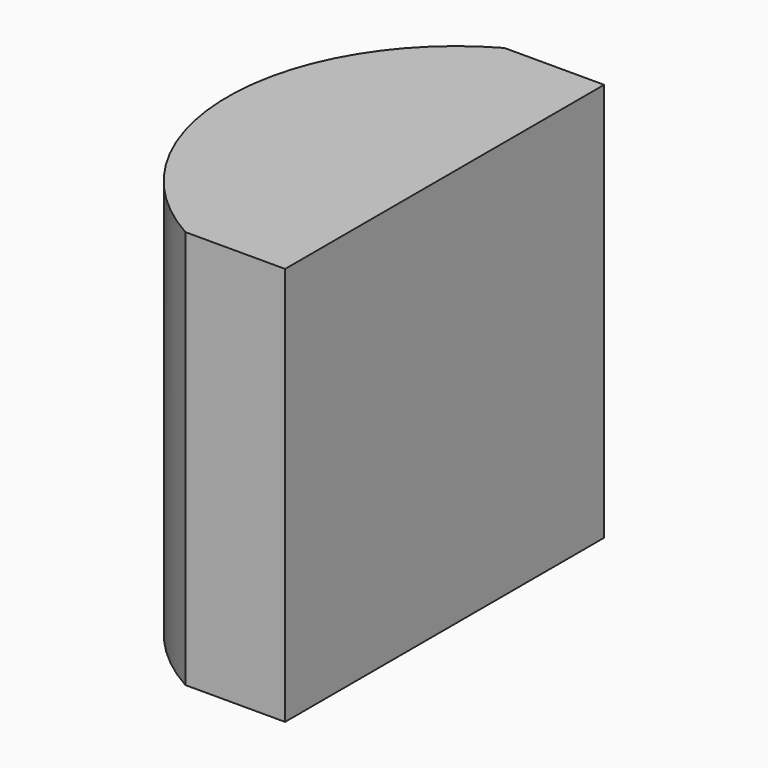
from build123d import *

# Parameters (mm, degrees)
F1_W     = 1.5
F1_H     = 6
F2_DEPTH = 3


with BuildPart() as f2:
    # F1 (on Top) → F2 (new body, symmetric)
    with BuildSketch(Plane.XY):
        with Locations((0.75, 0)):
            Rectangle(F1_W, F1_H)
        with BuildLine():
            Line((0, -3), (0, 3))
            ThreePointArc((0, 3), (-1.7634933383, 0), (0, -3))
        make_face()
    extrude(amount=F2_DEPTH, both=True)


solid = f2.part
